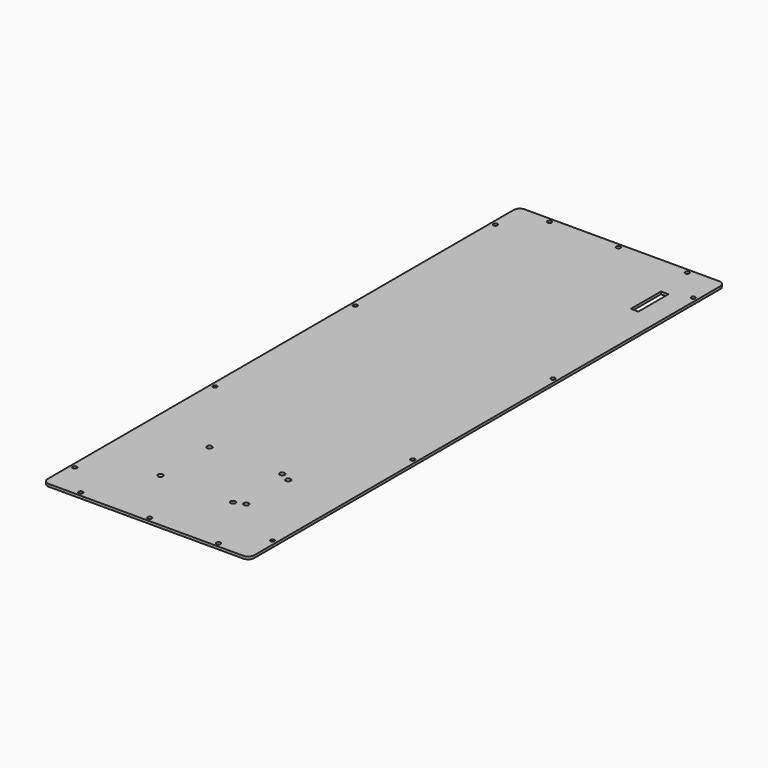
from build123d import *

# Parameters (mm, degrees)
PAD_DEPTH       = 2.03
SKETCH001_R     = 1.65
POCKET_DEPTH    = 5
SKETCH002_W     = 6
SKETCH002_H     = 30
POCKET001_DEPTH = 5
SKETCH004_R     = 2
POCKET002_DEPTH = 5


with BuildPart() as part:
    # Sketch → Pad (new body)
    with BuildSketch(Plane.XY):
        with BuildLine():
            Line((5, 475), (160, 475))
            ThreePointArc((165, 470), (163.535534, 473.535534), (160, 475))
            Line((165, 470), (165, 5))
            ThreePointArc((160, 0), (163.535534, 1.464466), (165, 5))
            Line((160, 0), (5, 0))
            ThreePointArc((0, 5), (1.464466, 1.464466), (5, 0))
            Line((0, 5), (0, 470))
            ThreePointArc((5, 475), (1.464466, 473.535534), (0, 470))
        make_face()
    extrude(amount=PAD_DEPTH)

    # Sketch001 → Pocket (cut)
    with BuildSketch(Plane.XY.offset(2.03)):
        with Locations((137.5, 3.5)):
            Circle(SKETCH001_R)
        with Locations((27.5, 3.5)):
            Circle(SKETCH001_R)
        with Locations((82.5, 3.5)):
            Circle(SKETCH001_R)
        with Locations((3.5, 27.5)):
            Circle(SKETCH001_R)
        with Locations((161.5, 27.5)):
            Circle(SKETCH001_R)
        with Locations((161.5, 167.5)):
            Circle(SKETCH001_R)
        with Locations((161.5, 307.5)):
            Circle(SKETCH001_R)
        with Locations((3.5, 307.5)):
            Circle(SKETCH001_R)
        with Locations((3.5, 167.5)):
            Circle(SKETCH001_R)
        with Locations((3.5, 447.5)):
            Circle(SKETCH001_R)
        with Locations((27.5, 471.5)):
            Circle(SKETCH001_R)
        with Locations((82.5, 471.5)):
            Circle(SKETCH001_R)
        with Locations((137.5, 471.5)):
            Circle(SKETCH001_R)
        with Locations((161.5, 447.5)):
            Circle(SKETCH001_R)
    extrude(amount=-POCKET_DEPTH, mode=Mode.SUBTRACT)

    # Sketch002 → Pocket001 (cut)
    with BuildSketch(Plane.XY.offset(2.03)):
        with Locations((143.5, 426.5)):
            Rectangle(SKETCH002_W, SKETCH002_H)
    extrude(amount=-POCKET001_DEPTH, mode=Mode.SUBTRACT)

    # Sketch004 → Pocket002 (cut)
    with BuildSketch(Plane.XY.offset(2.03)):
        with Locations((118, 97.5)):
            Circle(SKETCH004_R)
        with Locations((118, 55.675)):
            Circle(SKETCH004_R)
        with Locations((52, 52.5)):
            Circle(SKETCH004_R)
        with Locations((52, 101.5)):
            Circle(SKETCH004_R)
        with Locations((110, 101.5)):
            Circle(SKETCH004_R)
        with Locations((110, 52.5)):
            Circle(SKETCH004_R)
    extrude(amount=-POCKET002_DEPTH, mode=Mode.SUBTRACT)


solid = part.part
